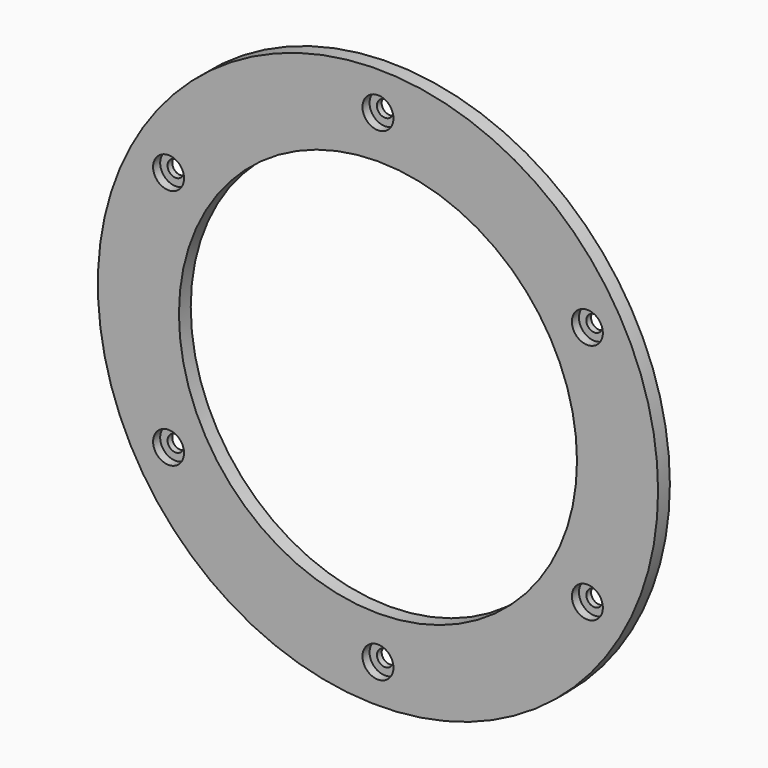
from build123d import *

# Parameters (mm, degrees)
F0_R           = 95
F0_R_2         = 67.5
F1_DEPTH       = 5
F3_D           = 5.5
F3_CBORE_D     = 10.5
F3_CBORE_DEPTH = 3


with BuildPart() as f1:
    # F0 (on Front) → F1 (new body)
    with BuildSketch(Plane.XZ):
        Circle(F0_R)
        Circle(F0_R_2, mode=Mode.SUBTRACT)
    extrude(amount=F1_DEPTH)

    # F3 (through all)
    with Locations(Plane.XZ.offset(5)):
        with Locations((0, 82), (-71.014083, 41), (-71.014083, -41), (71.014083, -41), (71.014083, 41), (0, -82)):
            CounterBoreHole(F3_D / 2, F3_CBORE_D / 2, F3_CBORE_DEPTH)


solid = f1.part
